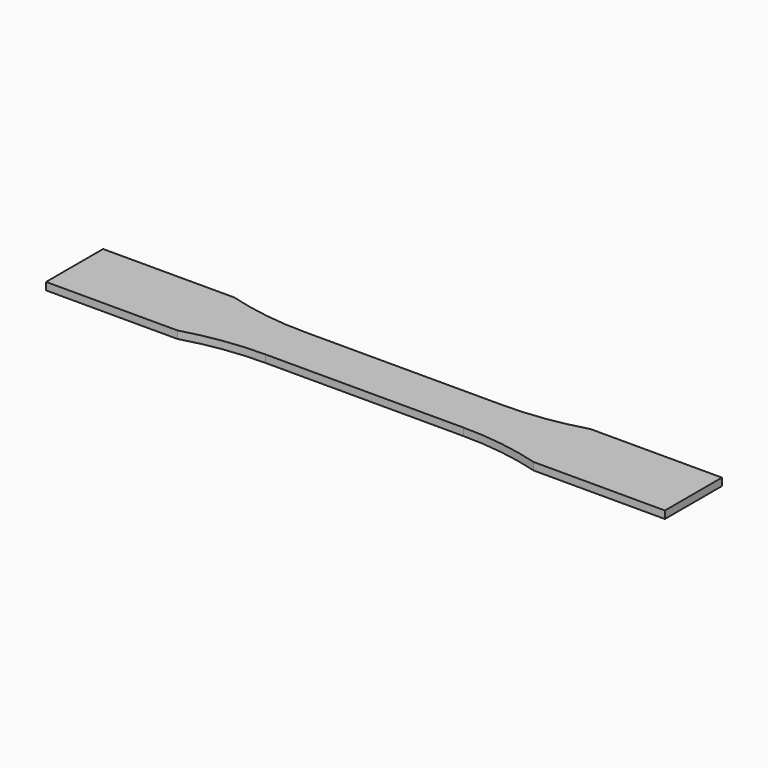
from build123d import *

# Parameters (mm, degrees)
F1_DEPTH = 2


with BuildPart() as f1:
    # F0 (on Top) → F1 (new body)
    with BuildSketch(Plane.XY):
        with BuildLine():
            Line((82.5, 0), (0, 0))
            Line((0, 0), (0, -6.5))
            Line((0, -6.5), (26.357625, -6.5))
            ThreePointArc((26.357625, -6.5), (37.034704, -7.253738), (47.5, -9.5))
            Line((47.5, -9.5), (82.5, -9.5))
            Line((82.5, -9.5), (82.5, 0))
        make_face()
        with BuildLine():
            Line((0, -6.5), (0, 0))
            Line((0, 0), (82.5, 0))
            Line((82.5, 0), (82.5, 9.5))
            Line((82.5, 9.5), (47.5, 9.5))
            ThreePointArc((47.5, 9.5), (37.034704, 7.253738), (26.357625, 6.5))
            Line((26.357625, 6.5), (0, 6.5))
            Line((0, 6.5), (-26.357625, 6.5))
            ThreePointArc((-26.357625, 6.5), (-37.034704, 7.253738), (-47.5, 9.5))
            Line((-47.5, 9.5), (-82.5, 9.5))
            Line((-82.5, 9.5), (-82.5, 0))
            Line((-82.5, 0), (-82.5, -9.5))
            Line((-82.5, -9.5), (-47.5, -9.5))
            ThreePointArc((-47.5, -9.5), (-37.034704, -7.253738), (-26.357625, -6.5))
            Line((-26.357625, -6.5), (0, -6.5))
        make_face()
    extrude(amount=F1_DEPTH)


solid = f1.part
